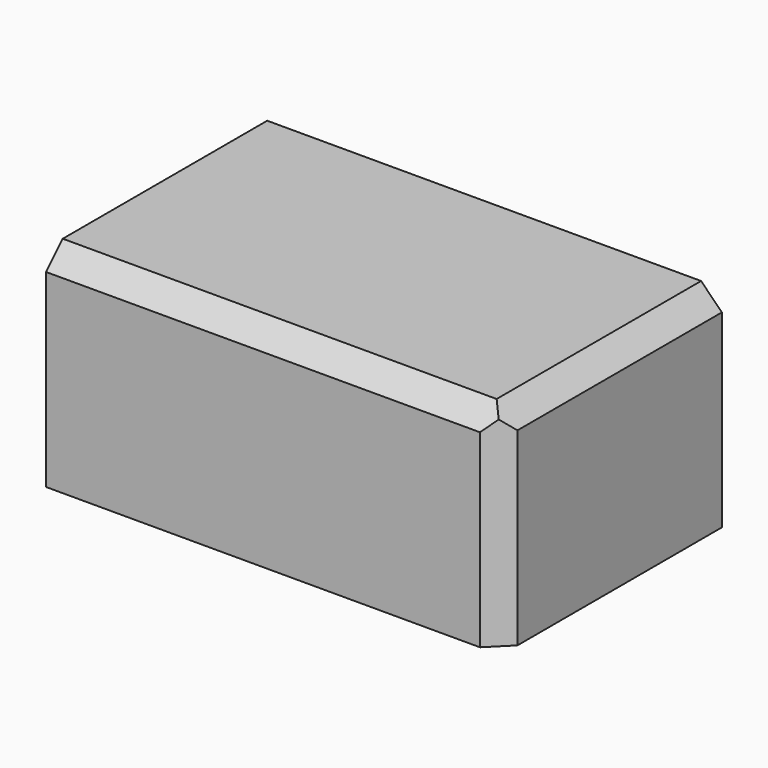
from build123d import *

# Parameters (mm, degrees)
F0_W     = 109.152086
F0_H     = 50.441206
F1_DEPTH = 66.34388
F2_SIZE  = 5
F3_SIZE  = 5


with BuildPart() as f1:
    # F0 (on Front) → F1 (new body)
    with BuildSketch(Plane.XZ):
        with Locations((-54.576043, 25.220603)):
            Rectangle(F0_W, F0_H)
    extrude(amount=F1_DEPTH)

    # F2
    f2_edges = [f1.edges().sort_by_distance(p)[0] for p in [
        (0, -33.17194, 50.441206),
        (0, -66.34388, 25.220603),
    ]]
    chamfer(f2_edges, length=F2_SIZE)

    # F3
    f3_edges = [f1.edges().sort_by_distance(p)[0] for p in [
        (-57.076043, -66.34388, 50.441206),
    ]]
    chamfer(f3_edges, length=F3_SIZE)


solid = f1.part
